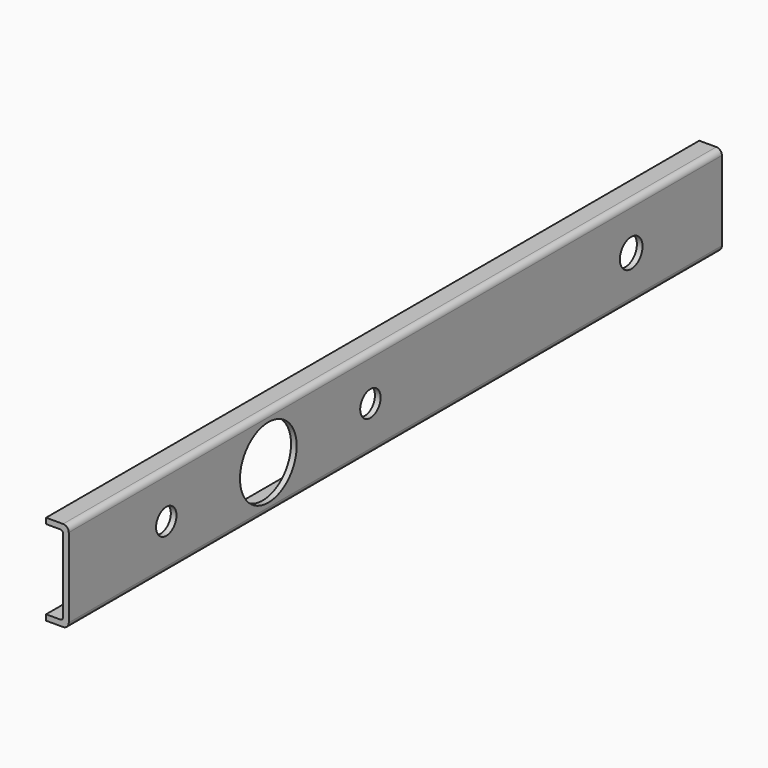
from build123d import *

# Parameters (mm, degrees)
F1_DEPTH = 457.2
F2_R     = 1.5875
F3_R     = 3.175
F4_R     = 7.14375
F4_R_2   = 19.84375
F4_R_3   = 7.9375
F5_DEPTH = 25.4


with BuildPart() as f1:
    # F0 (on Front) → F1 (new body)
    with BuildSketch(Plane.XZ):
        Polygon((0, 3.175), (0, 0), (12.7, 0), (12.7, 50.8), (0, 50.8), (0, 47.625), (9.525, 47.625), (9.525, 3.175), align=None)
    extrude(amount=F1_DEPTH)

    # F2
    f2_edges = [f1.edges().sort_by_distance(p)[0] for p in [
        (9.525, -228.6, 3.175),
        (9.525, -228.6, 47.625),
    ]]
    fillet(f2_edges, radius=F2_R)

    # F3
    f3_edges = [f1.edges().sort_by_distance(p)[0] for p in [
        (12.7, -228.6, 0),
        (12.7, -228.6, 50.8),
    ]]
    fillet(f3_edges, radius=F3_R)

    # F4 (on face) → F5 (cut)
    with BuildSketch(Plane.YZ.offset(12.7)):
        with Locations((-388.9375, 25.4)):
            Circle(F4_R)
        with Locations((-246.0625, 25.4)):
            Circle(F4_R)
        with Locations((-317.5, 25.4)):
            Circle(F4_R_2)
        with Locations((-63.5, 25.4)):
            Circle(F4_R_3)
    extrude(amount=-F5_DEPTH, mode=Mode.SUBTRACT)


solid = f1.part
